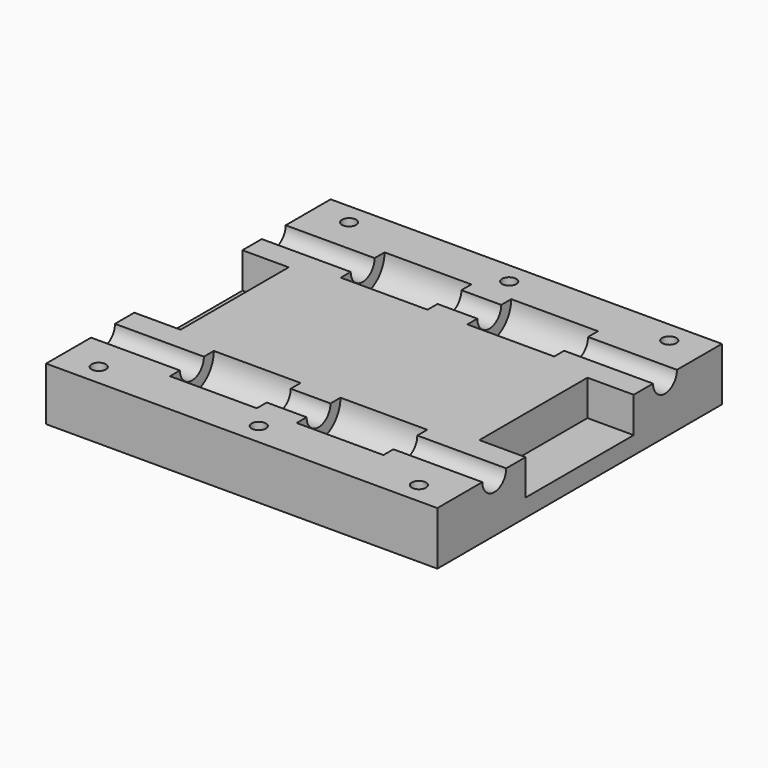
from build123d import *

# Parameters (mm, degrees)
CYLINDER001_R               = 4.2
CYLINDER001_DEPTH           = 120
CYLINDER001_ROLL_ANGLE      = -89.998101
CYLINDER001_PITCH_ANGLE     = 89.45035
CYLINDER001_PLACEMENT_ANGLE = -89.998101
CYLINDER_R                  = 4.2
CYLINDER_DEPTH              = 120
CYLINDER_PITCH_ANGLE        = 90
CYLINDER008_R               = 2
CYLINDER008_DEPTH           = 80
ARRAY006_X_COUNT            = 3
ARRAY006_X_PITCH            = 45
CYLINDER010_R               = 2
CYLINDER010_DEPTH           = 80
ARRAY007_X_COUNT            = 3
ARRAY007_X_PITCH            = 45
CYLINDER009_R               = 7.7
CYLINDER009_DEPTH           = 24.4
CYLINDER009_PITCH_ANGLE     = 90
ARRAY005_X_COUNT            = 2
ARRAY005_X_PITCH            = 35.6
CYLINDER007_R               = 7.7
CYLINDER007_DEPTH           = 24.4
CYLINDER007_PITCH_ANGLE     = 90
ARRAY004_X_COUNT            = 2
ARRAY004_X_PITCH            = 35.6
BOX003_W                    = 40
BOX003_H                    = 38
BOX003_DEPTH                = 25
BOX002_W                    = 40
BOX002_H                    = 38
BOX002_DEPTH                = 25
BOX004_W                    = 110
BOX004_H                    = 100
BOX004_DEPTH                = 15


with BuildPart() as cylinder001:
    # Cylinder001 → Cylinder001 (new body)
    with BuildSketch(Plane.XY):
        Circle(CYLINDER001_R)
    extrude(amount=CYLINDER001_DEPTH)


with BuildPart() as cylinder001_1:
    # Cylinder001 roll: moved
    add(cylinder001.part.rotate(Axis((0, 0, 0), (1, 0, 0)), CYLINDER001_ROLL_ANGLE))


with BuildPart() as cylinder001_2:
    # Cylinder001 pitch: moved
    add(cylinder001_1.part.rotate(Axis((0, 0, 0), (0, 1, 0)), CYLINDER001_PITCH_ANGLE))


with BuildPart() as cylinder001_3:
    # Cylinder001 placement: moved
    add(cylinder001_2.part.moved(Location((-5, 80, 0))).rotate(Axis((-5, 80, 0), (0, 0, 1)), CYLINDER001_PLACEMENT_ANGLE))


with BuildPart() as ejes:
    # Cylinder → Cylinder (new body)
    with BuildSketch(Plane.XY):
        Circle(CYLINDER_R)
    extrude(amount=CYLINDER_DEPTH)


with BuildPart() as ejes_1:
    # Cylinder pitch: moved
    add(ejes.part.rotate(Axis((0, 0, 0), (0, 1, 0)), CYLINDER_PITCH_ANGLE))


with BuildPart() as ejes_2:
    # Cylinder placement: moved
    add(ejes_1.part.moved(Location((-5, 20, 0))))

    # Fusion001: union Cylinder001
    add(cylinder001_3.part)


with BuildPart() as array006:
    # Cylinder008 → Cylinder008 (new body)
    with BuildSketch(Plane(origin=(10, 6, -30), x_dir=(1, 0, 0), z_dir=(0, 0, 1))):
        Circle(CYLINDER008_R)
    extrude(amount=CYLINDER008_DEPTH)

    # Array006 X: Array006 ×3


with BuildPart() as array006_1:
    add(array006.part)
    with Locations(*[(i * ARRAY006_X_PITCH, 0, 0) for i in range(1, ARRAY006_X_COUNT)]):
        add(array006.part)


with BuildPart() as array007:
    # Cylinder010 → Cylinder010 (new body)
    with BuildSketch(Plane(origin=(10, 6, -30), x_dir=(1, 0, 0), z_dir=(0, 0, 1))):
        Circle(CYLINDER010_R)
    extrude(amount=CYLINDER010_DEPTH)

    # Array007 X: Array007 ×3


with BuildPart() as array007_1:
    add(array007.part)
    with Locations(*[(i * ARRAY007_X_PITCH, 0, 0) for i in range(1, ARRAY007_X_COUNT)]):
        add(array007.part)


with BuildPart() as array007_2:
    # Array007 placement: moved
    add(array007_1.part.moved(Location((0, 88, 0))))


with BuildPart() as array005:
    # Cylinder009 → Cylinder009 (new body)
    with BuildSketch(Plane.XY):
        Circle(CYLINDER009_R)
    extrude(amount=CYLINDER009_DEPTH)


with BuildPart() as array005_1:
    # Cylinder009 pitch: moved
    add(array005.part.rotate(Axis((0, 0, 0), (0, 1, 0)), CYLINDER009_PITCH_ANGLE))


with BuildPart() as array005_2:
    # Cylinder009 placement: moved
    add(array005_1.part.moved(Location((25, 80, 0))))

    # Array005 X: Array005 ×2


with BuildPart() as array005_3:
    add(array005_2.part)
    with Locations(*[(i * ARRAY005_X_PITCH, 0, 0) for i in range(1, ARRAY005_X_COUNT)]):
        add(array005_2.part)


with BuildPart() as obj1:
    # Cylinder007 → Cylinder007 (new body)
    with BuildSketch(Plane.XY):
        Circle(CYLINDER007_R)
    extrude(amount=CYLINDER007_DEPTH)


with BuildPart() as obj1_1:
    # Cylinder007 pitch: moved
    add(obj1.part.rotate(Axis((0, 0, 0), (0, 1, 0)), CYLINDER007_PITCH_ANGLE))


with BuildPart() as obj1_2:
    # Cylinder007 placement: moved
    add(obj1_1.part.moved(Location((25, 20, 0))))

    # Array004 X: obj1_2


with BuildPart() as obj1_3:
    add(obj1_2.part)
    with Locations(*[(i * ARRAY004_X_PITCH, 0, 0) for i in range(1, ARRAY004_X_COUNT)]):
        add(obj1_2.part)

    # Fusion005: union Array006, Array007, Array005
    add(array006_1.part)
    add(array007_2.part)
    add(array005_3.part)


with BuildPart() as cubo003:
    # Box003 → Box003 (new body)
    with BuildSketch(Plane(origin=(97, 31, -10), x_dir=(1, 0, 0), z_dir=(0, 0, 1))):
        with Locations((20, 19)):
            Rectangle(BOX003_W, BOX003_H)
    extrude(amount=BOX003_DEPTH)


with BuildPart() as fusion002:
    # Box002 → Box002 (new body)
    with BuildSketch(Plane(origin=(-27, 31, -10), x_dir=(1, 0, 0), z_dir=(0, 0, 1))):
        with Locations((20, 19)):
            Rectangle(BOX002_W, BOX002_H)
    extrude(amount=BOX002_DEPTH)

    # Fusion002: union Cubo003
    add(cubo003.part)


with BuildPart() as cut005:
    # Box004 → Box004 (new body)
    with BuildSketch(Plane.XY.offset(-15)):
        with Locations((55, 50)):
            Rectangle(BOX004_W, BOX004_H)
    extrude(amount=BOX004_DEPTH)

    # Cut: cut Fusion002
    add(fusion002.part, mode=Mode.SUBTRACT)

    # Cut003: cut obj1
    add(obj1_3.part, mode=Mode.SUBTRACT)

    # Cut005: cut Ejes
    add(ejes_2.part, mode=Mode.SUBTRACT)


solid = cut005.part
